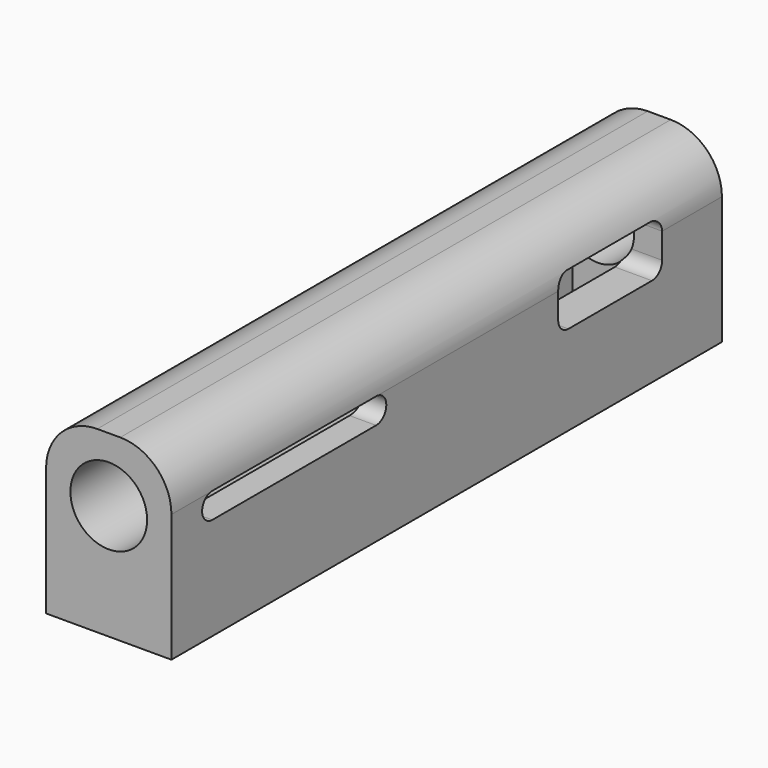
from build123d import *

# Parameters (mm, degrees)
F0_R      = 9.525
F1_DEPTH  = 170.815
F0_R_2    = 8.5725
F2_DEPTH  = 56.515
F4_DEPTH  = 19.05
F6_DEPTH  = 12.7
F5_W      = 8.0137
F5_H      = 3.175
F7_DEPTH  = 12.7
F11_DEPTH = 12.7
F13_DEPTH = 29.21


with BuildPart() as f1:
    # F0 (on Front) → F1 (new body)
    with BuildSketch(Plane.XZ):
        with BuildLine():
            Line((2.8575, 15.875), (-2.8575, 15.875))
            ThreePointArc((-2.8575, 15.875), (-11.8377561211, 12.1552561211), (-15.5575, 3.175))
            Line((-15.5575, 3.175), (-15.5575, -28.575))
            Line((-15.5575, -28.575), (15.5575, -28.575))
            Line((15.5575, -28.575), (15.5575, 3.175))
            ThreePointArc((15.5575, 3.175), (11.8377561211, 12.1552561211), (2.8575, 15.875))
        make_face()
        Circle(F0_R, mode=Mode.SUBTRACT)
    extrude(amount=F1_DEPTH)

    # F0 (on Front) → F2 (join)
    with BuildSketch(Plane.XZ):
        Circle(F0_R)
        Circle(F0_R_2, mode=Mode.SUBTRACT)
    extrude(amount=F2_DEPTH)

    # F3 (on face) → F4 (cut)
    with BuildSketch(Plane.YZ.offset(15.5575)):
        with BuildLine():
            Line((-21.717, 6.35), (-47.625, 6.35))
            ThreePointArc((-47.625, 6.35), (-49.8700640303, 5.4200640303), (-50.8, 3.175))
            Line((-50.8, 3.175), (-18.542, 3.175))
            ThreePointArc((-18.542, 3.175), (-19.4719359697, 5.4200640303), (-21.717, 6.35))
        make_face()
        with BuildLine():
            Line((-18.542, 3.175), (-50.8, 3.175))
            Line((-50.8, 3.175), (-50.8, -3.175))
            ThreePointArc((-50.8, -3.175), (-49.8700640303, -5.4200640303), (-47.625, -6.35))
            Line((-47.625, -6.35), (-21.717, -6.35))
            ThreePointArc((-21.717, -6.35), (-19.4719359697, -5.4200640303), (-18.542, -3.175))
            Line((-18.542, -3.175), (-18.542, 3.175))
        make_face()
    extrude(amount=-F4_DEPTH, mode=Mode.SUBTRACT)

    # F5 (on face) → F6 (cut)
    with BuildSketch(Plane.XZ.offset(56.515)):
        with BuildLine():
            ThreePointArc((-8.4242269675, -1.5875), (-8.5725, 0), (-8.4242269675, 1.5875))
            Line((-8.4242269675, 1.5875), (-9.3917766557, 1.5875))
            ThreePointArc((-9.3917766557, 1.5875), (-9.525, 0), (-9.3917766557, -1.5875))
            Line((-9.3917766557, -1.5875), (-8.4242269675, -1.5875))
        make_face()
    extrude(amount=-F6_DEPTH, mode=Mode.SUBTRACT)

    # F8 (on Right) → F9 (revolve, cut)
    with BuildSketch(Plane.YZ):
        with BuildLine():
            Line((-76.2, 0), (-76.2, 9.525))
            ThreePointArc((-76.2, 9.525), (-79.375, 12.7), (-82.55, 9.525))
            Line((-82.55, 9.525), (-82.55, 0))
            Line((-82.55, 0), (-76.2, 0))
        make_face()
    revolve(axis=Axis((0, -79.375, 0), (0, -1, 0)), mode=Mode.SUBTRACT)

    # F10 (on face) → F11 (cut)
    with BuildSketch(Plane.YZ.offset(15.5575)):
        with BuildLine():
            ThreePointArc((-107.315, -3.175), (-104.14, 0), (-107.315, 3.175))
            Line((-107.315, 3.175), (-158.115, 3.175))
            ThreePointArc((-158.115, 3.175), (-161.29, 0), (-158.115, -3.175))
            Line((-158.115, -3.175), (-107.315, -3.175))
        make_face()
        with BuildLine():
            ThreePointArc((-107.315, -3.175), (-104.14, 0), (-107.315, 3.175))
            Line((-107.315, 3.175), (-158.115, 3.175))
            ThreePointArc((-158.115, 3.175), (-161.29, 0), (-158.115, -3.175))
            Line((-158.115, -3.175), (-107.315, -3.175))
        make_face()
    extrude(amount=-F11_DEPTH, mode=Mode.SUBTRACT)

    # F12 (on face) → F13 (cut)
    with BuildSketch(Plane(origin=(0, 0, -28.575), x_dir=(1, 0, 0), z_dir=(0, 0, -1))):
        Polygon((-6.35, 19.05), (0, 19.05), (6.35, 19.05), (6.35, 57.15), (0, 57.15), (-6.35, 57.15), align=None)
    extrude(amount=-F13_DEPTH, mode=Mode.SUBTRACT)


with BuildPart() as f7:
    # F5 (on face) → F7 (new body)
    with BuildSketch(Plane.XZ.offset(56.515)):
        with Locations((-7.10565, 0)):
            Rectangle(F5_W, F5_H)
    extrude(amount=-F7_DEPTH)


solid = Compound([f1.part, f7.part])
